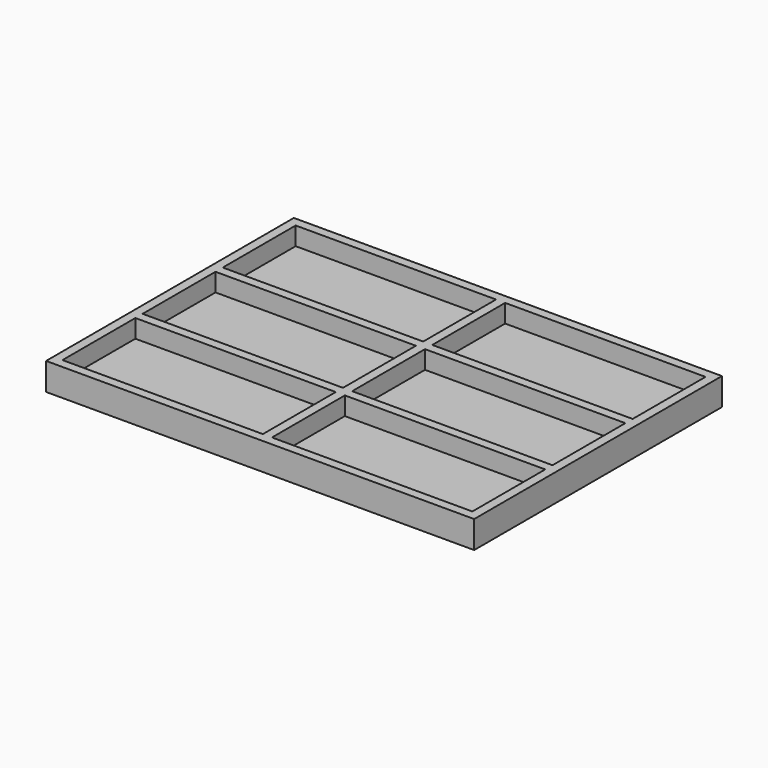
from build123d import *

# Parameters (mm, degrees)
F0_W     = 235
F0_H     = 170
F1_DEPTH = 5
F2_W     = 235
F2_H     = 170
F2_W_2   = 110
F2_H_2   = 50
F3_DEPTH = 10


with BuildPart() as f1:
    # F0 (on Top) → F1 (new body)
    with BuildSketch(Plane.XY):
        Rectangle(F0_W, F0_H)
    extrude(amount=F1_DEPTH)

    # F2 (on face) → F3 (join)
    with BuildSketch(Plane.XY.offset(5)):
        Rectangle(F2_W, F2_H)
        with Locations((-57.5, -55)):
            Rectangle(F2_W_2, F2_H_2, mode=Mode.SUBTRACT)
        with Locations((57.5, -55)):
            Rectangle(F2_W_2, F2_H_2, mode=Mode.SUBTRACT)
        with Locations((-57.5, 0)):
            Rectangle(F2_W_2, F2_H_2, mode=Mode.SUBTRACT)
        with Locations((-57.5, 55)):
            Rectangle(F2_W_2, F2_H_2, mode=Mode.SUBTRACT)
        with Locations((57.5, 0)):
            Rectangle(F2_W_2, F2_H_2, mode=Mode.SUBTRACT)
        with Locations((57.5, 55)):
            Rectangle(F2_W_2, F2_H_2, mode=Mode.SUBTRACT)
    extrude(amount=F3_DEPTH)


solid = f1.part
